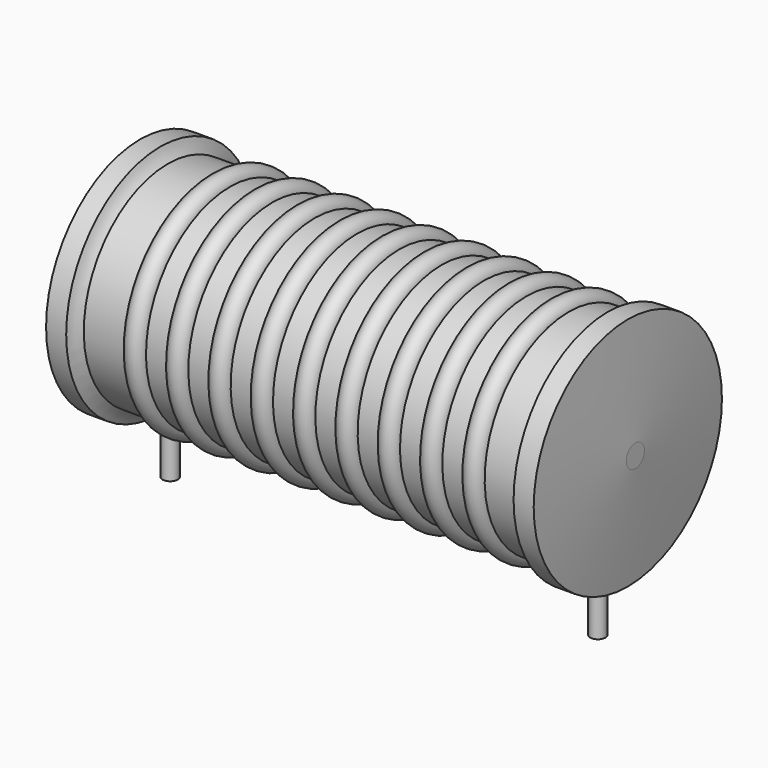
from build123d import *

# Parameters (mm, degrees)
SKETCH_R = 0.45


with BuildPart() as revolution:
    # Sketch002 → Revolution (revolve)
    with BuildSketch(Plane.XZ):
        with BuildLine():
            Line((-1.77725, 14.07), (-0.58325, 14.07))
            ThreePointArc((-0.58325, 14.07), (-0.399464, 13.672822), (-0.1355, 13.32375))
            Line((-0.1355, 13.32375), (25.5355, 13.32375))
            ThreePointArc((25.5355, 13.32375), (25.799464, 13.672822), (25.98325, 14.07))
            Line((25.98325, 14.07), (27.17725, 14.07))
            ThreePointArc((27.625, 7.76), (27.421663, 10.916457), (27.17725, 14.07))
            Line((27.625, 7.085), (27.625, 7.76))
            Line((-2.225, 7.085), (27.625, 7.085))
            Line((-2.225, 7.085), (-2.225, 7.76))
            ThreePointArc((-1.77725, 14.07), (-2.021663, 10.916457), (-2.225, 7.76))
        make_face()
    revolve(axis=Axis((-2.225, 0, 7.085), (1, 0, 0)))


with BuildPart() as sweep_body:
    # Sweep: sweep along a path in Sketch001
    with BuildLine(Plane.XZ) as sweep_path:
        Line((0, -3), (0, 6.185))
        ThreePointArc((0, 6.185), (0.263601, 6.821393), (0.899993, 7.085))
        Line((0.899993, 7.085), (24.5, 7.085))
        ThreePointArc((24.5, 7.085), (25.136396, 6.821396), (25.4, 6.185))
        Line((25.4, 6.185), (25.4, -3))
    # Sketch → Sweep (sweep)
    with BuildSketch(Plane.XY.offset(-2)):
        Circle(SKETCH_R)
    sweep(path=sweep_path.line)


with BuildPart() as revolution001:
    # Sketch003 → Revolution001 (revolve)
    with BuildSketch(Plane.XZ):
        with BuildLine():
            ThreePointArc((3.572184, 13.20435), (2.943763, 13.832771), (2.315342, 13.20435))
            Line((1.0585, 13.20435), (2.315342, 13.20435))
            Line((1.0585, 13.20435), (1.0585, 11.80735))
            Line((1.0585, 11.80735), (24.9385, 11.80735))
            Line((24.9385, 11.80735), (24.9385, 13.20435))
            Line((23.681658, 13.20435), (24.9385, 13.20435))
            ThreePointArc((23.681658, 13.20435), (23.053237, 13.832771), (22.424816, 13.20435))
            Line((21.167974, 13.20435), (22.424816, 13.20435))
            ThreePointArc((21.167974, 13.20435), (20.539553, 13.832771), (19.911132, 13.20435))
            Line((18.654289, 13.20435), (19.911132, 13.20435))
            ThreePointArc((18.654289, 13.20435), (18.025868, 13.832771), (17.397447, 13.20435))
            Line((16.140605, 13.20435), (17.397447, 13.20435))
            ThreePointArc((16.140605, 13.20435), (15.512184, 13.832771), (14.883763, 13.20435))
            Line((13.626921, 13.20435), (14.883763, 13.20435))
            ThreePointArc((13.626921, 13.20435), (12.9985, 13.832771), (12.370079, 13.20435))
            Line((11.113237, 13.20435), (12.370079, 13.20435))
            ThreePointArc((11.113237, 13.20435), (10.484816, 13.832771), (9.856395, 13.20435))
            Line((8.599553, 13.20435), (9.856395, 13.20435))
            ThreePointArc((8.599553, 13.20435), (7.971132, 13.832771), (7.342711, 13.20435))
            Line((6.085868, 13.20435), (7.342711, 13.20435))
            ThreePointArc((6.085868, 13.20435), (5.457447, 13.832771), (4.829026, 13.20435))
            Line((3.572184, 13.20435), (4.829026, 13.20435))
        make_face()
    revolve(axis=Axis((-1.47875, 0, 7.085), (1, 0, 0)))


solid = Compound([revolution.part, sweep_body.part, revolution001.part])
